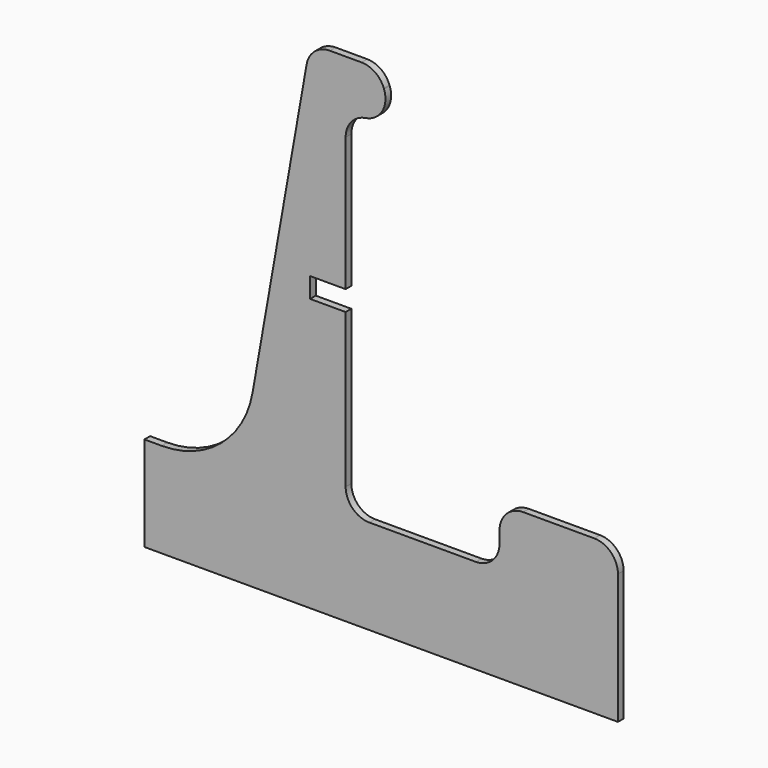
from build123d import *

# Parameters (mm, degrees)
F1_DEPTH = 6
F2_R     = 20
F4_W     = 58.9145278931
F4_H     = 17
F5_DEPTH = 25


with BuildPart() as f1:
    # F0 (on Front) → F1 (new body)
    with BuildSketch(Plane.XZ):
        with BuildLine():
            Line((0, 80), (0, 0))
            Line((0, 0), (400, 0))
            Line((400, 0), (400, 110))
            ThreePointArc((400, 110), (394.1421356237, 124.1421356237), (380, 130))
            Line((380, 130), (320, 130))
            ThreePointArc((320, 130), (305.8578643763, 124.1421356237), (300, 110))
            Line((300, 110), (300, 100))
            ThreePointArc((300, 100), (294.1421356237, 85.8578643763), (280, 80))
            Line((280, 80), (190, 80))
            ThreePointArc((190, 80), (175.8578643763, 85.8578643763), (170, 100))
            Line((170, 100), (170, 360))
            ThreePointArc((170, 360), (175.8578643763, 374.1421356237), (190, 380))
            Line((190, 380), (212, 380))
            Line((212, 380), (202.2308922809, 406.8404028665))
            ThreePointArc((202.2308922809, 406.8404028665), (194.9085685922, 416.3830408858), (183.4370398652, 420))
            Line((183.4370398652, 420), (156.7331660644, 420))
            ThreePointArc((156.7331660644, 420), (143.8774138707, 415.3208888624), (137.0370110042, 403.4729635533))
            Line((137.0370110042, 403.4729635533), (91.3652335031, 144.455442142))
            ThreePointArc((91.3652335031, 144.455442142), (64.6876623237, 98.2485334367), (14.5502287682, 80))
            Line((14.5502287682, 80), (0, 80))
        make_face()
    extrude(amount=F1_DEPTH)

    # F2
    f2_edges = [f1.edges().sort_by_distance(p)[0] for p in [
        (212, -3, 380),
    ]]
    fillet(f2_edges, radius=F2_R)

    # F4 (on face) → F5 (cut)
    with BuildSketch(Plane.XZ.offset(6)):
        with Locations((169.4572639465, 238.5)):
            Rectangle(F4_W, F4_H)
    extrude(amount=-F5_DEPTH, mode=Mode.SUBTRACT)


solid = f1.part
